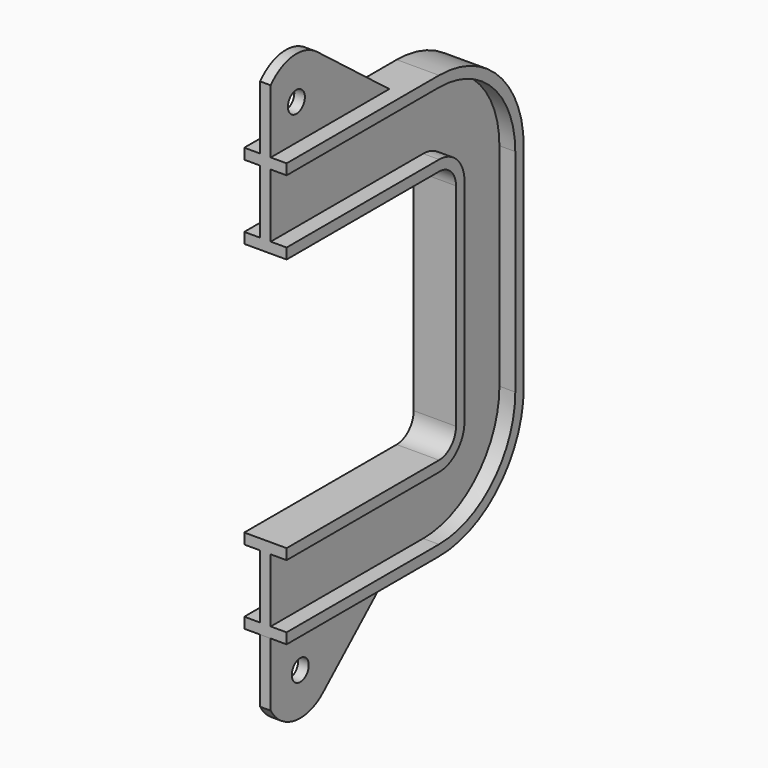
from build123d import *

# Parameters (mm, degrees)
F4_DEPTH  = 2.5
F5_R      = 5
F6_DEPTH  = 25.4
F8_DEPTH  = 2.5
F9_R      = 5
F10_DEPTH = 25.4


with BuildPart() as f2:
    # F2: sweep along a path in F1
    with BuildLine(Plane.YZ) as f2_path:
        Line((0, 60), (90, 60))
        ThreePointArc((90, 60), (97.071068, 57.071068), (100, 50))
        Line((100, 50), (100, -50))
        ThreePointArc((100, -50), (97.071068, -57.071068), (90, -60))
        Line((90, -60), (0, -60))
    # F0 (on Front) → F2 (sweep)
    with BuildSketch(Plane.XZ):
        Polygon((-10, 60), (0, 60), (10, 60), (10, 65), (2.5, 65), (2.5, 95), (10, 95), (10, 100), (0, 100), (-10, 100), (-10, 95), (-2.5, 95), (-2.5, 65), (-10, 65), align=None)
    sweep(path=f2_path.line)

    # F3 (on Right) → F4 (join, symmetric)
    with BuildSketch(Plane.YZ):
        with BuildLine():
            Line((0, 130), (0, 100))
            Line((0, 100), (70, 100))
            Line((70, 100), (27.347526, 132.802719))
            ThreePointArc((27.347526, 132.802719), (13.115891, 136.844791), (0, 130))
        make_face()
    extrude(amount=F4_DEPTH, both=True)

    # F5 (on face) → F6 (cut)
    with BuildSketch(Plane(origin=(-2.5, 0, 0), x_dir=(0, -1, 0), z_dir=(-1, 0, 0))):
        with Locations((-15.154916, 116.949004)):
            Circle(F5_R)
    extrude(amount=-F6_DEPTH, mode=Mode.SUBTRACT)

    # F7 (on Right) → F8 (join, symmetric)
    with BuildSketch(Plane.YZ):
        with BuildLine():
            Line((70, -100), (0, -100))
            Line((0, -100), (0, -130))
            ThreePointArc((0, -130), (14.162499, -139.933551), (30.774234, -135.106332))
            Line((30.774234, -135.106332), (70, -100))
        make_face()
    extrude(amount=F8_DEPTH, both=True)

    # F9 (on face) → F10 (cut)
    with BuildSketch(Plane.YZ.offset(2.5)):
        with Locations((17.436313, -120.203317)):
            Circle(F9_R)
    extrude(amount=-F10_DEPTH, mode=Mode.SUBTRACT)


solid = f2.part
